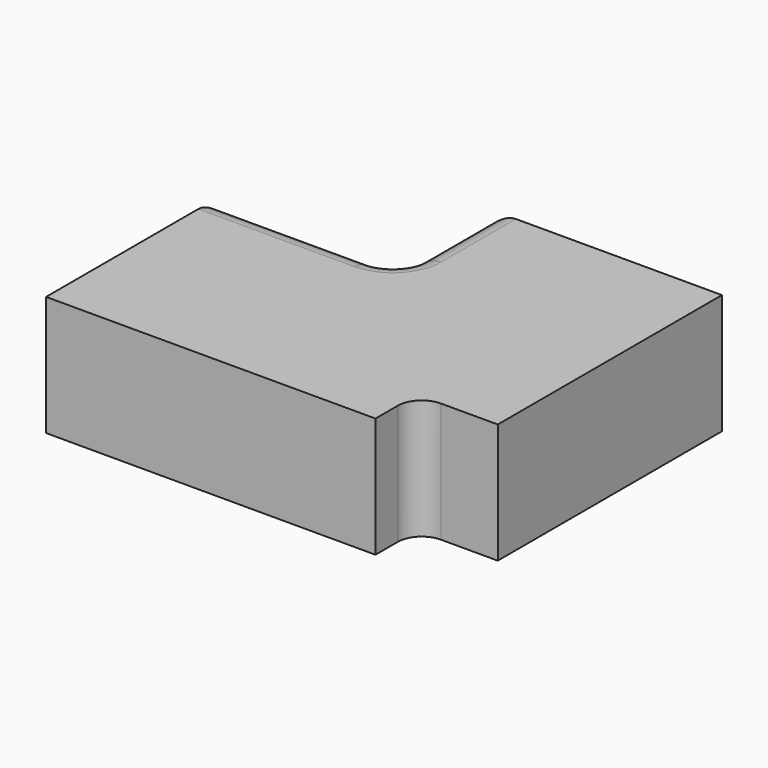
from build123d import *

# Parameters (mm, degrees)
F0_W     = 31.6318641417
F0_H     = 34.4229061157
F1_DEPTH = 25.4
F2_R     = 5.08


with BuildPart() as f1:
    # F0 (on Top) → F1 (new body)
    with BuildSketch(Plane.XY):
        Polygon((7.3497560807, 16.3741391152), (-30.7945460081, 16.3741391152), (-30.7945460081, -29.0268845856), (38.9816202223, -29.0268845856), (38.9816202223, -18.0487670004), (7.3497560807, -18.0487670004), align=None)
        Polygon((7.3497560807, 41.3074865937), (7.3497560807, 16.3741391152), (38.9816202223, 16.3741391152), (38.9816202223, -18.0487670004), (56.1000369489, -18.0487670004), (56.1000369489, 41.3074865937), align=None)
        with Locations((23.1656881515, -0.8373139426)):
            Rectangle(F0_W, F0_H)
    extrude(amount=F1_DEPTH)

    # F2
    f2_edges = [f1.edges().sort_by_distance(p)[0] for p in [
        (7.349756, 16.374139, 12.7),
        (-30.794546, 16.374139, 12.7),
        (-11.722395, 16.374139, 0),
        (-11.722395, 16.374139, 25.4),
        (7.349756, 41.307487, 12.7),
        (7.349756, 28.840813, 0),
        (7.349756, 28.840813, 25.4),
        (38.98162, -18.048767, 12.7),
    ]]
    fillet(f2_edges, radius=F2_R)


solid = f1.part
